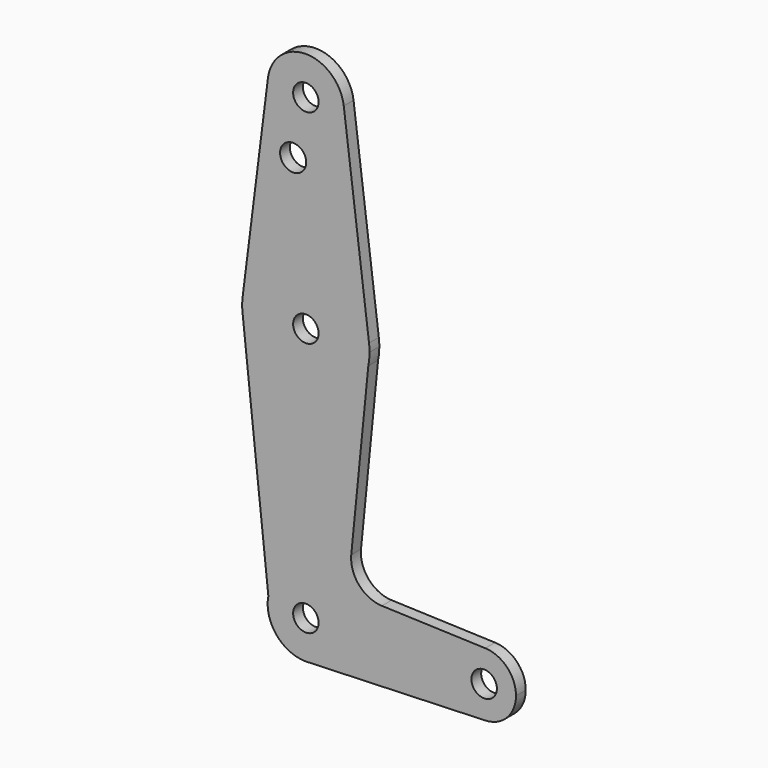
from build123d import *

# Parameters (mm, degrees)
F0_R     = 3.175
F0_R_2   = 3.253539
F1_DEPTH = 3.048


with BuildPart() as f1:
    # F0 (on Front) → F1 (new body)
    with BuildSketch(Plane.XZ):
        with BuildLine():
            ThreePointArc((0.677344, -9.500886), (6.970557, -6.491299), (9.525, 0))
            ThreePointArc((9.525, 0), (0.902825, 9.482116), (-9.353852, 1.797521))
            ThreePointArc((-9.353852, 1.797521), (-7.343263, -6.066475), (0, -9.525))
            Line((0, -9.525), (0.677344, -9.500886))
        make_face()
        Circle(F0_R, mode=Mode.SUBTRACT)
        with BuildLine():
            ThreePointArc((-9.353852, 1.797521), (0.902825, 9.482116), (9.525, 0))
            ThreePointArc((9.525, 0), (6.970557, -6.491299), (0.677344, -9.500886))
            Line((0.677344, -9.500886), (44.732405, -7.932475))
            ThreePointArc((44.732405, -7.932475), (36.5125, 0), (44.732405, 7.932475))
            Line((44.732405, 7.932475), (18.946914, 8.850468))
            ThreePointArc((18.946914, 8.850468), (13.242954, 11.564602), (11.318466, 17.581083))
            Line((11.318466, 17.581083), (15.569825, 60.402231))
            ThreePointArc((15.569825, 60.402231), (-0.563978, 47.635021), (-15.750488, 61.515625))
            Line((-15.750488, 61.515625), (-9.353852, 1.797521))
        make_face()
        with BuildLine():
            ThreePointArc((0, -9.525), (0.338886, -9.51897), (0.677344, -9.500886))
            Line((0.677344, -9.500886), (0, -9.525))
        make_face()
        with BuildLine():
            ThreePointArc((-15.750488, 65.484375), (-15.875, 63.5), (-15.750488, 61.515625))
            ThreePointArc((-15.750488, 61.515625), (-0.563978, 47.635021), (15.569825, 60.402231))
            ThreePointArc((15.569825, 60.402231), (15.798522, 61.943618), (15.875, 63.5))
            ThreePointArc((15.875, 63.5), (15.843841, 64.494139), (15.750488, 65.484375))
            ThreePointArc((15.750488, 65.484375), (0, 79.375), (-15.750488, 65.484375))
        make_face()
        with Locations((0, 63.5)):
            Circle(F0_R, mode=Mode.SUBTRACT)
        with BuildLine():
            ThreePointArc((44.732405, 7.932475), (36.5125, 0), (44.732405, -7.932475))
            ThreePointArc((44.732405, -7.932475), (50.161633, -5.51191), (52.3875, 0))
            ThreePointArc((52.3875, 0), (50.161633, 5.51191), (44.732405, 7.932475))
        make_face()
        with Locations((44.45, 0)):
            Circle(F0_R, mode=Mode.SUBTRACT)
        with BuildLine():
            Line((-9.450293, 115.490625), (-15.750488, 65.484375))
            ThreePointArc((-15.750488, 65.484375), (0, 79.375), (15.750488, 65.484375))
            Line((15.750488, 65.484375), (9.450293, 115.490625))
            ThreePointArc((9.450293, 115.490625), (9.506305, 114.896483), (9.525, 114.3))
            ThreePointArc((9.525, 114.3), (-0.596483, 104.793695), (-9.450293, 115.490625))
        make_face()
        with Locations((-3.175, 100.0252)):
            Circle(F0_R_2, mode=Mode.SUBTRACT)
        with BuildLine():
            ThreePointArc((9.450293, 115.490625), (0, 123.825), (-9.450293, 115.490625))
            ThreePointArc((-9.450293, 115.490625), (-0.596483, 104.793695), (9.525, 114.3))
            ThreePointArc((9.525, 114.3), (9.506305, 114.896483), (9.450293, 115.490625))
        make_face()
        with Locations((0, 114.3)):
            Circle(F0_R, mode=Mode.SUBTRACT)
    extrude(amount=F1_DEPTH)


solid = f1.part
